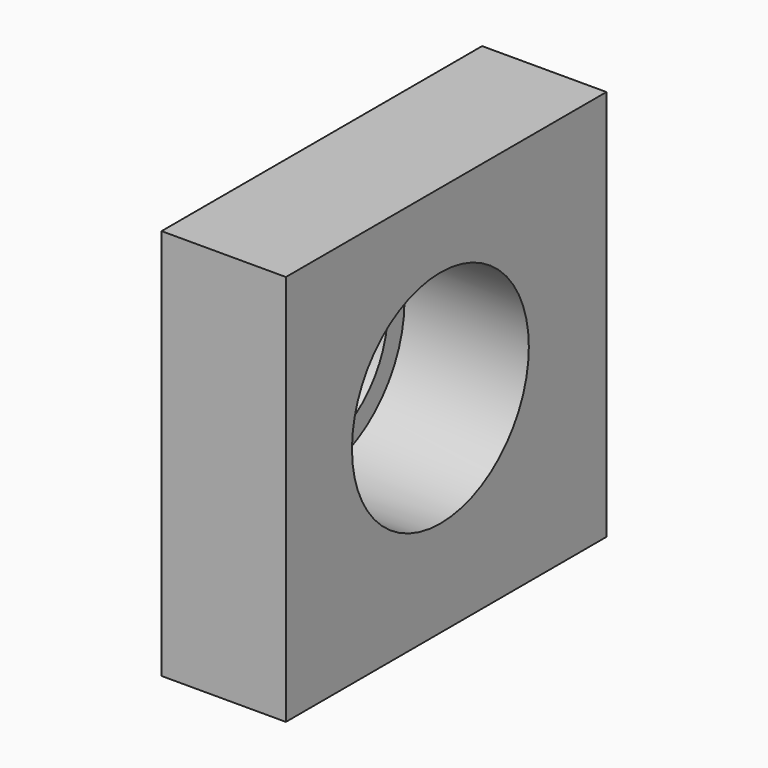
from build123d import *

# Parameters (mm, degrees)
F0_W     = 81.853554
F0_H     = 80.01
F0_R     = 22.582529
F1_DEPTH = 25.4
F0_R_2   = 18.318974
F2_DEPTH = 9.398


with BuildPart() as f1:
    # F0 (on Right) → F1 (new body)
    with BuildSketch(Plane.YZ):
        with Locations((-2.304435, 2.48879)):
            Rectangle(F0_W, F0_H)
        with Locations((-3.779275, 4.701048)):
            Circle(F0_R, mode=Mode.SUBTRACT)
    extrude(amount=F1_DEPTH)


with BuildPart() as f2:
    # F0 (on Right) → F2 (new body)
    with BuildSketch(Plane.YZ):
        with Locations((-3.779275, 4.701048)):
            Circle(F0_R)
        with Locations((-3.779275, 4.701048)):
            Circle(F0_R_2, mode=Mode.SUBTRACT)
    extrude(amount=-F2_DEPTH)


solid = Compound([f1.part, f2.part])
